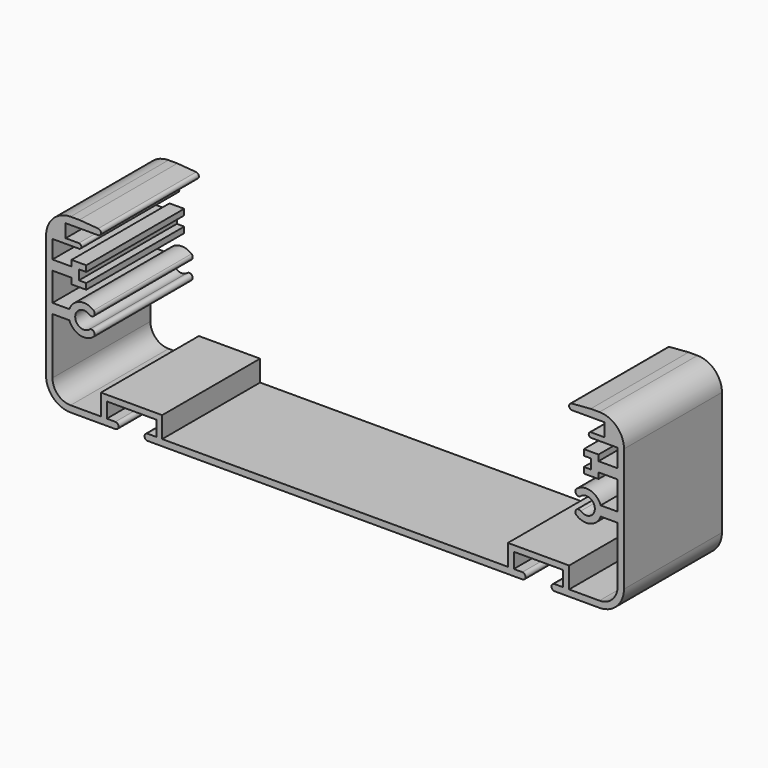
from build123d import *

# Parameters (mm, degrees)
F1_DEPTH = 25


with BuildPart() as f1:
    # F0 (on Front) → F1 (new body)
    with BuildSketch(Plane.XZ):
        with BuildLine():
            Line((0, 0), (0, 1.3))
            Line((0, 1.3), (-35.3, 1.3))
            Line((-35.3, 1.3), (-35.3, 5.6))
            Line((-35.3, 5.6), (-47.8, 5.6))
            Line((-47.8, 5.6), (-47.8, 1.3))
            Line((-47.8, 1.3), (-54, 1.3))
            ThreePointArc((-54, 1.3), (-56.616295, 2.383705), (-57.7, 5))
            Line((-57.7, 5), (-57.7, 16.5))
            Line((-57.7, 16.5), (-54.23428, 16.5))
            ThreePointArc((-54.23428, 16.5), (-52.133155, 14.514057), (-49.307358, 15.125262))
            ThreePointArc((-49.307358, 15.125262), (-49.22416, 16.076224), (-50.175122, 16.159422))
            ThreePointArc((-50.175122, 16.159422), (-53.05, 17.5), (-50.175122, 18.840578))
            ThreePointArc((-50.175122, 18.840578), (-49.22416, 18.923776), (-49.307358, 19.874738))
            ThreePointArc((-49.307358, 19.874738), (-52.133155, 20.485943), (-54.23428, 18.5))
            Line((-54.23428, 18.5), (-57.7, 18.5))
            Line((-57.7, 18.5), (-57.7, 24.3))
            Line((-57.7, 24.3), (-53.8, 24.3))
            Line((-53.8, 24.3), (-53.8, 23.1))
            Line((-53.8, 23.1), (-50.8, 23.1))
            Line((-50.8, 23.1), (-50.8, 24.3))
            Line((-50.8, 24.3), (-52.3, 24.3))
            Line((-52.3, 24.3), (-52.3, 26.3))
            Line((-52.3, 26.3), (-50.8, 26.3))
            Line((-50.8, 26.3), (-50.8, 27.5))
            Line((-50.8, 27.5), (-53.8, 27.5))
            Line((-53.8, 27.5), (-53.8, 26.3))
            Line((-53.8, 26.3), (-57.7, 26.3))
            Line((-57.7, 26.3), (-57.7, 30))
            Line((-57.7, 30), (-52.3, 30))
            ThreePointArc((-52.3, 30), (-51.8, 30.5), (-52.3, 31))
            Line((-52.3, 31), (-55, 31))
            Line((-55, 31), (-55, 33.7))
            Line((-55, 33.7), (-48.447221, 33.7))
            ThreePointArc((-48.447221, 33.7), (-47.801861, 34.250918), (-48.352779, 34.896278))
            Line((-48.352779, 34.896278), (-52.2, 35.2))
            Line((-52.2, 35.2), (-54, 35.2))
            ThreePointArc((-54, 35.2), (-57.535534, 33.735534), (-59, 30.2))
            Line((-59, 30.2), (-59, 5))
            ThreePointArc((-59, 5), (-57.535534, 1.464466), (-54, 0))
            Line((-54, 0), (-44.85, 0))
            ThreePointArc((-44.85, 0), (-44.2, 0.65), (-44.85, 1.3))
            Line((-44.85, 1.3), (-46.6, 1.3))
            Line((-46.6, 1.3), (-46.6, 4.4))
            Line((-46.6, 4.4), (-36.5, 4.4))
            Line((-36.5, 4.4), (-36.5, 1.3))
            Line((-36.5, 1.3), (-38.25, 1.3))
            ThreePointArc((-38.25, 1.3), (-38.9, 0.65), (-38.25, 0))
            Line((-38.25, 0), (0, 0))
        make_face()
    extrude(amount=F1_DEPTH)

    # F2: F1 across plane


with BuildPart() as f1_1:
    add(f1.part)
    add(f1.part.mirror(Plane.YZ))


solid = f1_1.part
